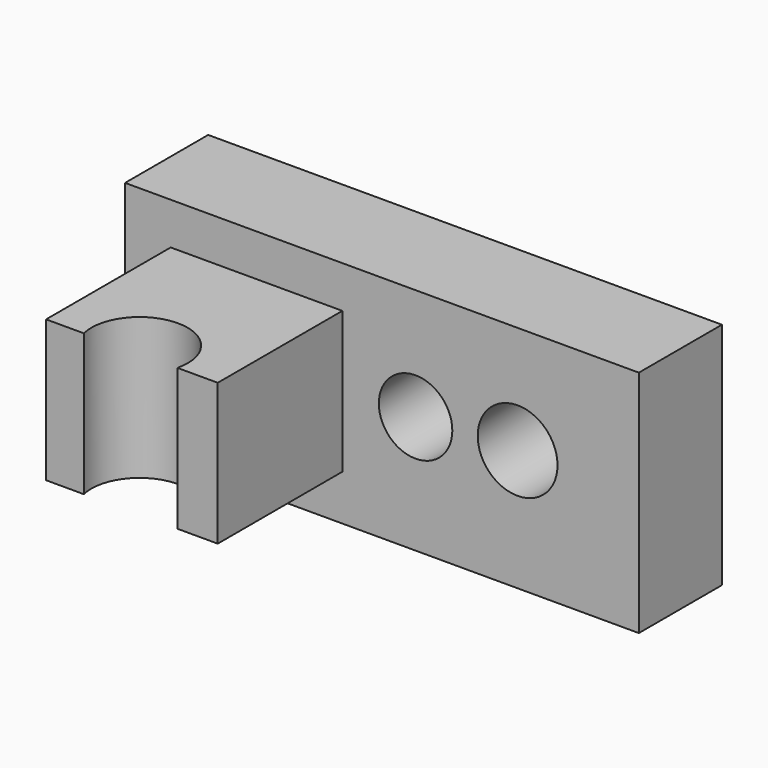
from build123d import *

# Parameters (mm, degrees)
F0_W     = 125.667088
F0_H     = 56.080402
F1_DEPTH = 25.4
F2_W     = 41.9869
F2_H     = 34.646532
F3_DEPTH = 38.1
F5_DEPTH = 50.8
F6_R     = 8.98768
F6_R_2   = 9.7602
F7_DEPTH = 50.8


with BuildPart() as f1:
    # F0 (on Front) → F1 (new body)
    with BuildSketch(Plane.XZ):
        with Locations((1.027655, 8.368018)):
            Rectangle(F0_W, F0_H)
    extrude(amount=F1_DEPTH)

    # F2 (on face) → F3 (join)
    with BuildSketch(Plane.XZ.offset(25.4)):
        with Locations((-29.655083, 8.80844)):
            Rectangle(F2_W, F2_H)
    extrude(amount=F3_DEPTH)

    # F4 (on face) → F5 (cut)
    with BuildSketch(Plane(origin=(0, 0, -8.514826), x_dir=(1, 0, 0), z_dir=(0, 0, -1))):
        with BuildLine():
            Line((-18.516481, 63.5), (-41.419674, 63.5))
            ThreePointArc((-41.419674, 63.5), (-29.968077, 49.006404), (-18.516481, 63.5))
        make_face()
    extrude(amount=-F5_DEPTH, mode=Mode.SUBTRACT)

    # F6 (on face) → F7 (cut)
    with BuildSketch(Plane.XZ.offset(25.4)):
        with Locations((9.248862, 9.102055)):
            Circle(F6_R)
        with Locations((34.206115, 9.982899)):
            Circle(F6_R_2)
    extrude(amount=-F7_DEPTH, mode=Mode.SUBTRACT)


solid = f1.part
